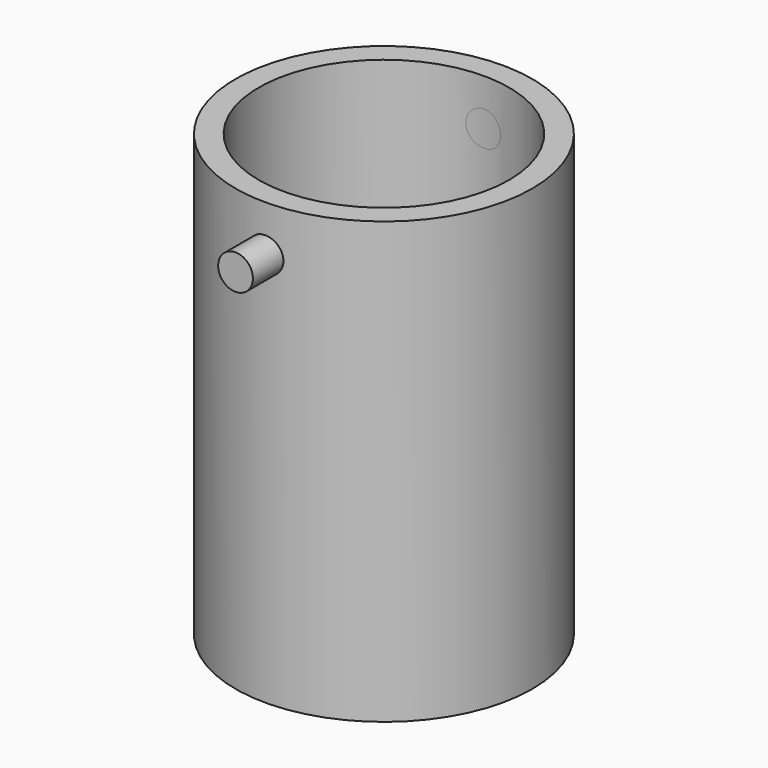
from build123d import *

# Parameters (mm, degrees)
F0_R          = 40.64
F0_R_2        = 34.29
F1_DEPTH      = 120.65
F2_DEPTH      = 6.35
F3_R          = 4.7625
F4_DEPTH      = 50.8
F4_DEPTH_BACK = 50.8
F2_FACE_R     = 34.29
F5_DEPTH      = 114.301


with BuildPart() as f1:
    # F0 (on Top) → F1 (new body)
    with BuildSketch(Plane.XY):
        Circle(F0_R)
        Circle(F0_R_2, mode=Mode.SUBTRACT)
    extrude(amount=F1_DEPTH)

    # F0 (on Top) → F2 (join)
    with BuildSketch(Plane.XY):
        Circle(F0_R_2)
    extrude(amount=F2_DEPTH)

    # F3 (on Front) → F4 (join, two sides)
    with BuildSketch(Plane.XZ) as f4_sk:
        with Locations((0, 107.95)):
            Circle(F3_R)
    extrude(amount=F4_DEPTH)
    extrude(f4_sk.sketch, amount=-F4_DEPTH_BACK)

    # F2_face (on face) → F5 (cut, through all)
    with BuildSketch(Plane.XY.offset(6.35)):
        Circle(F2_FACE_R)
    extrude(amount=F5_DEPTH, mode=Mode.SUBTRACT)


solid = f1.part
